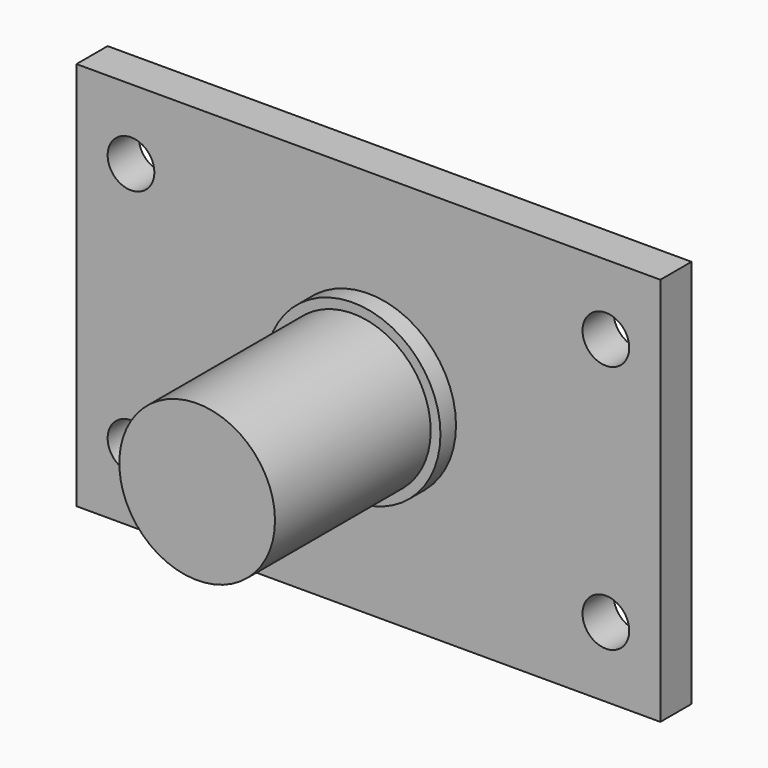
from build123d import *

# Parameters (mm, degrees)
F0_W     = 150
F0_H     = 100
F1_DEPTH = 10
F2_R     = 22.5
F3_DEPTH = 5
F4_R     = 20
F5_DEPTH = 50
F8_D     = 12
F9_D     = 12
F11_D    = 12


with BuildPart() as f1:
    # F0 (on Front) → F1 (new body)
    with BuildSketch(Plane.XZ):
        with Locations((75, -50)):
            Rectangle(F0_W, F0_H)
    extrude(amount=F1_DEPTH)

    # F2 (on face) → F3 (join)
    with BuildSketch(Plane.XZ.offset(10)):
        with Locations((75, -50)):
            Circle(F2_R)
    extrude(amount=F3_DEPTH)

    # F4 (on face) → F5 (join)
    with BuildSketch(Plane.XZ.offset(15)):
        with Locations((75, -50)):
            Circle(F4_R)
    extrude(amount=F5_DEPTH)

    # F8 (through all)
    with Locations(Plane.XZ.offset(10)):
        with Locations((136, -18)):
            Hole(F8_D / 2)

    # F9 (through all)
    with Locations(Plane.XZ.offset(10)):
        with Locations((136, -82)):
            Hole(F9_D / 2)

    # F11 (through all)
    with Locations(Plane.XZ.offset(10)):
        with Locations((14, -82), (14, -18)):
            Hole(F11_D / 2)


solid = f1.part
